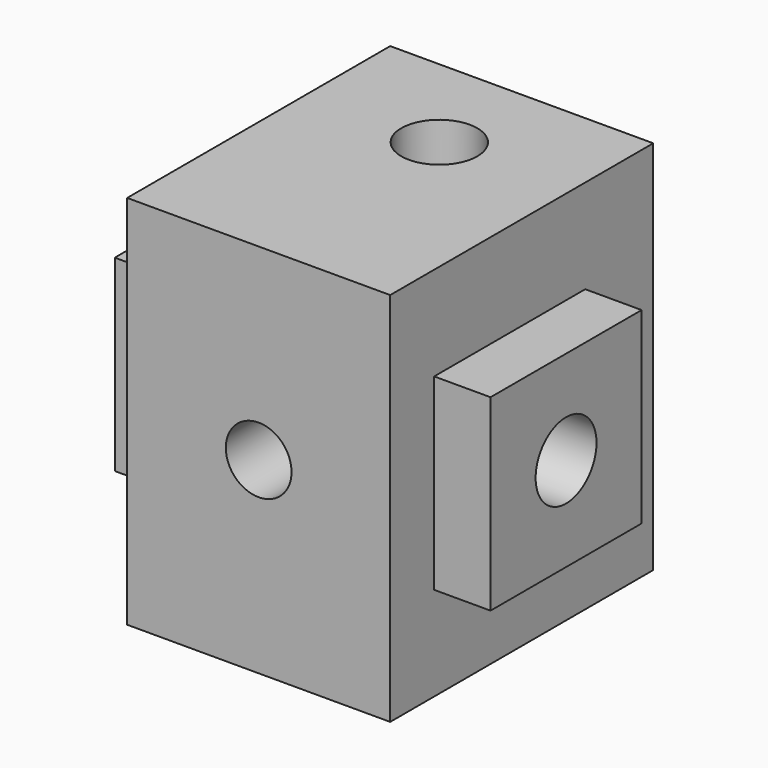
from build123d import *

# Parameters (mm, degrees)
F0_W      = 40
F0_H      = 40
F1_DEPTH  = 40
F2_R      = 4.05
F3_DEPTH  = 40
F4_R      = 4.05
F5_DEPTH  = 40
F6_R      = 3.5
F7_DEPTH  = 40
F8_W      = 40
F8_H      = 40
F8_W_2    = 20.1
F8_H_2    = 20
F9_DEPTH  = 6
F10_W     = 34
F10_H     = 40
F10_W_2   = 18.5
F10_H_2   = 20
F11_DEPTH = 5
F12_W     = 35
F12_H     = 40
F12_W_2   = 20
F12_H_2   = 20
F13_DEPTH = 6


with BuildPart() as f1:
    # F0 (on Top) → F1 (new body)
    with BuildSketch(Plane.XY):
        Rectangle(F0_W, F0_H)
    extrude(amount=F1_DEPTH)

    # F2 (on face) → F3 (cut)
    with BuildSketch(Plane.XY.offset(40)):
        with Locations((0, 4.0336288512)):
            Circle(F2_R)
    extrude(amount=-F3_DEPTH, mode=Mode.SUBTRACT)

    # F4 (on face) → F5 (cut)
    with BuildSketch(Plane.YZ.offset(20)):
        with Locations((-4.1, 20)):
            Circle(F4_R)
    extrude(amount=-F5_DEPTH, mode=Mode.SUBTRACT)

    # F6 (on face) → F7 (cut)
    with BuildSketch(Plane(origin=(0, 20, 0), x_dir=(-1, 0, 0), z_dir=(0, 1, 0))):
        with Locations((0, 20)):
            Circle(F6_R)
    extrude(amount=-F7_DEPTH, mode=Mode.SUBTRACT)

    # F8 (on face) → F9 (cut)
    with BuildSketch(Plane.YZ.offset(20)):
        with Locations((0, 20)):
            Rectangle(F8_W, F8_H)
        with Locations((-4.1, 20)):
            Rectangle(F8_W_2, F8_H_2, mode=Mode.SUBTRACT)
    extrude(amount=-F9_DEPTH, mode=Mode.SUBTRACT)

    # F10 (on face) → F11 (cut)
    with BuildSketch(Plane(origin=(0, 20, 0), x_dir=(-1, 0, 0), z_dir=(0, 1, 0))):
        with Locations((3, 20)):
            Rectangle(F10_W, F10_H)
        with Locations((-0.25, 20)):
            Rectangle(F10_W_2, F10_H_2, mode=Mode.SUBTRACT)
        with Locations((3, 20)):
            Rectangle(F10_W, F10_H)
        with Locations((-0.25, 20)):
            Rectangle(F10_W_2, F10_H_2, mode=Mode.SUBTRACT)
    extrude(amount=-F11_DEPTH, mode=Mode.SUBTRACT)

    # F12 (on face) → F13 (cut)
    with BuildSketch(Plane(origin=(-20, 0, 0), x_dir=(0, -1, 0), z_dir=(-1, 0, 0))):
        with Locations((2.5, 20)):
            Rectangle(F12_W, F12_H)
        with Locations((4.15, 20.0738927722)):
            Rectangle(F12_W_2, F12_H_2, mode=Mode.SUBTRACT)
    extrude(amount=-F13_DEPTH, mode=Mode.SUBTRACT)


solid = f1.part
